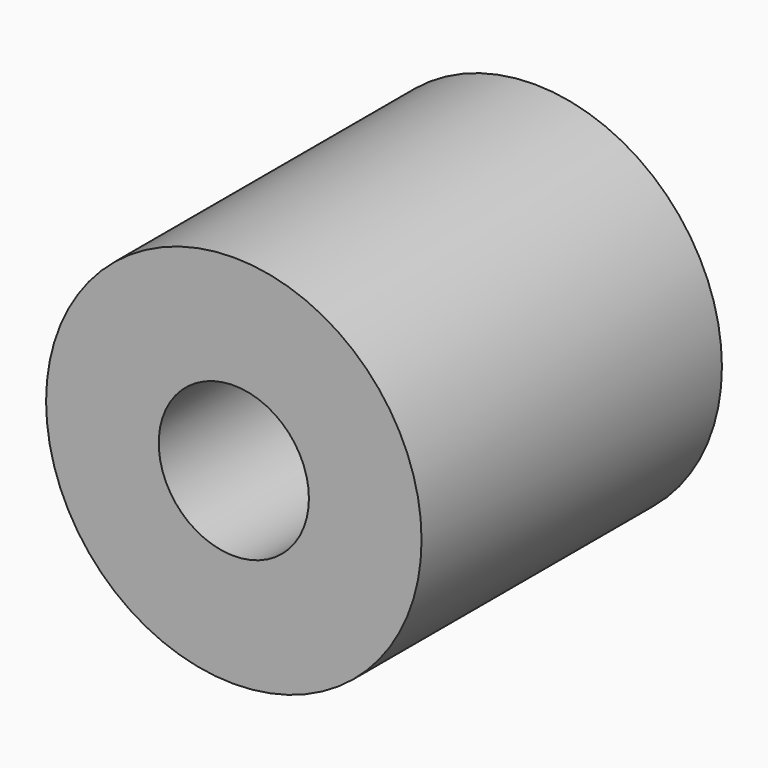
from build123d import *

# Parameters (mm, degrees)
F0_R        = 12.5
F0_R_2      = 5
F1_DEPTH    = 12.5
F1_FACE_R   = 12.5
F1_FACE_R_2 = 5
F0_R_3      = 4
F2_DEPTH    = 12.5


with BuildPart() as f1:
    # F0 (on Front) → F1 (new body)
    with BuildSketch(Plane.XZ):
        Circle(F0_R)
        Circle(F0_R_2, mode=Mode.SUBTRACT)
    extrude(amount=F1_DEPTH)

    # F1_face (on face) + F0 (on Front) → F2 (join)
    with BuildSketch(Plane(origin=(0, 0, 0), x_dir=(1, 0, 0), z_dir=(0, 1, 0))):
        Circle(F1_FACE_R)
        Circle(F1_FACE_R_2, mode=Mode.SUBTRACT)
    with BuildSketch(Plane.XZ):
        Circle(F0_R_2)
        Circle(F0_R_3, mode=Mode.SUBTRACT)
    extrude(amount=F2_DEPTH, dir=(0, 1, 0))


solid = f1.part
